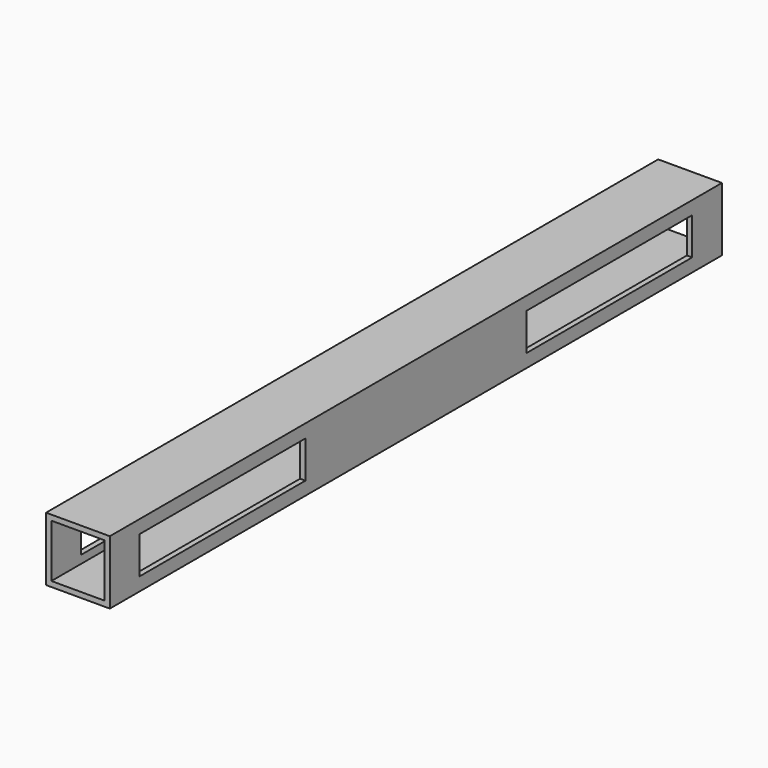
from build123d import *

# Parameters (mm, degrees)
F0_W     = 76.2
F0_H     = 76.2
F0_W_2   = 63.5
F0_H_2   = 63.5
F1_DEPTH = 914.4
F2_W     = 247.65
F2_H     = 44.45
F3_DEPTH = 76.201


with BuildPart() as f1:
    # F0 (on Front) → F1 (new body)
    with BuildSketch(Plane.XZ):
        Rectangle(F0_W, F0_H)
        Rectangle(F0_W_2, F0_H_2, mode=Mode.SUBTRACT)
    extrude(amount=-F1_DEPTH)

    # F2 (on face) → F3 (cut, through all)
    with BuildSketch(Plane.YZ.offset(38.1)):
        with Locations((168.275, 0)):
            Rectangle(F2_W, F2_H)
        with Locations((746.125, 0)):
            Rectangle(F2_W, F2_H)
    extrude(amount=-F3_DEPTH, mode=Mode.SUBTRACT)


solid = f1.part
